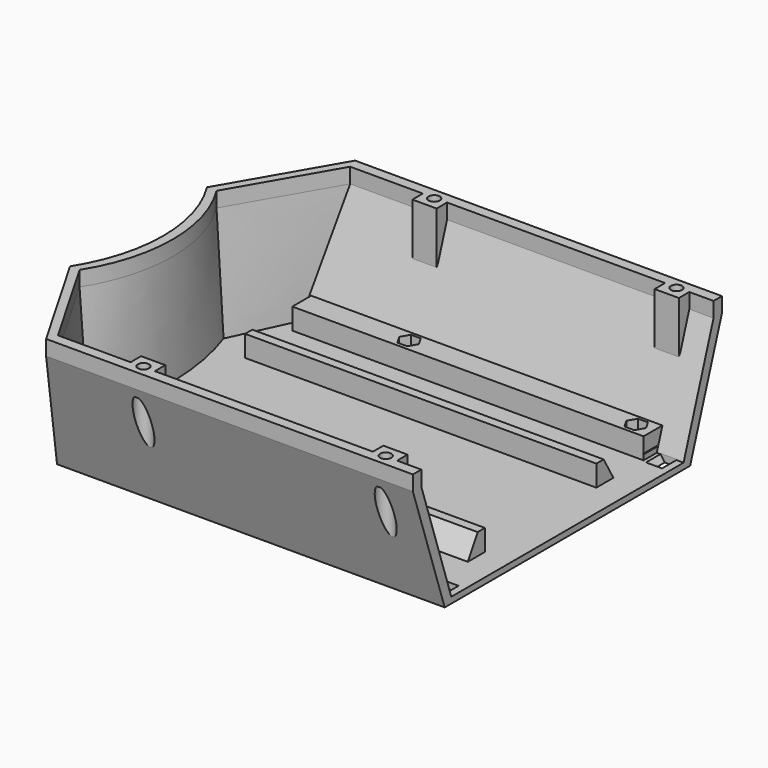
from build123d import *

# Parameters (mm, degrees)
BOX017_W            = 41
BOX017_H            = 140
BOX017_DEPTH        = 60
SKETCH348_R         = 1.85
EXTRUDE136129_DEPTH = 25
EXTRUDE136133_DEPTH = 6
EXTRUDE136132_DEPTH = 6
SKETCH339_R         = 1.75
EXTRUDE136134_DEPTH = 14
EXTRUDE136135_DEPTH = 5
SKETCH349_R         = 2.85
EXTRUDE136130_DEPTH = 25
SKETCH353_R         = 2.75
EXTRUDE136137_DEPTH = 4
EXTRUDE136131_DEPTH = 116
EXTRUDE136138_DEPTH = 20.5
EXTRUDE136128_DEPTH = 8
EXTRUDE136127_DEPTH = 8
ARRAY032_COUNT      = 2


with BuildPart() as cube013:
    # Box017 → Box017 (new body)
    with BuildSketch(Plane(origin=(52, -70, -46), x_dir=(1, 0, 0), z_dir=(0, 0, 1))):
        with Locations((20.5, 70)):
            Rectangle(BOX017_W, BOX017_H)
    extrude(amount=BOX017_DEPTH)


with BuildPart() as extrude136129:
    # Sketch348 → Extrude136129 (new body)
    with BuildSketch(Plane.XY):
        with Locations((-40, 60)):
            Circle(SKETCH348_R)
        with Locations((40, 60)):
            Circle(SKETCH348_R)
        with Locations((40, -60)):
            Circle(SKETCH348_R)
        with Locations((-40, -60)):
            Circle(SKETCH348_R)
    extrude(amount=-EXTRUDE136129_DEPTH)


with BuildPart() as extrude136133:
    # Sketch351 → Extrude136133 (new body)
    with BuildSketch(Plane.XZ):
        Polygon((-4.05083, 4), (-1.25, 0), (1.25, 0), (4.05083, 4), align=None)
    extrude(amount=-EXTRUDE136133_DEPTH)


with BuildPart() as extrude136133_1:
    # Extrude136133 placement: moved
    add(extrude136133.part.moved(Location((0, 42, 0))))


with BuildPart() as fusion034004041077001011012:
    # Sketch351 → Extrude136132 (new body)
    with BuildSketch(Plane.XZ):
        Polygon((-4.05083, 4), (-1.25, 0), (1.25, 0), (4.05083, 4), align=None)
    extrude(amount=-EXTRUDE136132_DEPTH)


with BuildPart() as fusion034004041077001011012_1:
    # Extrude136132 placement: moved
    add(fusion034004041077001011012.part.moved(Location((0, -48, 0))))

    # Fusion034004041077001011012: union Extrude136133
    add(extrude136133_1.part)


with BuildPart() as fusion034004041077001011012_2:
    # Fusion034004041077001011012 placement: moved
    add(fusion034004041077001011012_1.part.moved(Location((47, 0, -44))))


with BuildPart() as extrude136134:
    # Sketch339 → Extrude136134 (new body)
    with BuildSketch(Plane.XY.offset(-32)):
        with Locations((-37.5, 46.5)):
            Circle(SKETCH339_R)
        with Locations((37.5, 46.5)):
            Circle(SKETCH339_R)
        with Locations((37.5, -46.5)):
            Circle(SKETCH339_R)
        with Locations((-37.5, -46.5)):
            Circle(SKETCH339_R)
    extrude(amount=-EXTRUDE136134_DEPTH)


with BuildPart() as extrude136135:
    # Sketch340 → Extrude136135 (new body)
    with BuildSketch(Plane.XY.offset(-39)):
        Polygon((39.125, -49.314583), (40.75, -46.5), (39.125, -43.685417), (35.875, -43.685417), (34.25, -46.5), (35.875, -49.314583), align=None)
        Polygon((39.125, 43.685417), (40.75, 46.5), (39.125, 49.314583), (35.875, 49.314583), (34.25, 46.5), (35.875, 43.685417), align=None)
        Polygon((-34.25, 46.5), (-35.875, 49.314583), (-39.125, 49.314583), (-40.75, 46.5), (-39.125, 43.685417), (-35.875, 43.685417), align=None)
        Polygon((-40.75, -46.5), (-39.125, -49.314583), (-35.875, -49.314583), (-34.25, -46.5), (-35.875, -43.685417), (-39.125, -43.685417), align=None)
    extrude(amount=EXTRUDE136135_DEPTH)


with BuildPart() as fusion034004041077001011011:
    # Sketch349 → Extrude136130 (new body)
    with BuildSketch(Plane.XY.offset(-8)):
        with Locations((-40, -60)):
            Circle(SKETCH349_R)
        with Locations((40, -60)):
            Circle(SKETCH349_R)
        with Locations((40, 60)):
            Circle(SKETCH349_R)
        with Locations((-40, 60)):
            Circle(SKETCH349_R)
    extrude(amount=-EXTRUDE136130_DEPTH)

    # Fusion034004041077001011011: union Extrude136129, Fusion034004041077001011012, Extrude136134, Extrude136135
    add(extrude136129.part)
    add(fusion034004041077001011012_2.part)
    add(extrude136134.part)
    add(extrude136135.part)


with BuildPart() as loft005:
    # Sketch344 → Loft005 section 0
    with BuildSketch(Plane.XY.offset(-42)):
        with BuildLine():
            Line((83.953856, 28), (74.656255, 47.938771))
            Line((-74.656255, 47.938771), (74.656255, 47.938771))
            Line((-74.656255, 47.938771), (-83.953856, 28))
            ThreePointArc((-83.953856, -28), (-79.195376, 0), (-83.953856, 28))
            Line((-83.953856, -28), (-74.656255, -47.938771))
            Line((-74.656255, -47.938771), (74.656255, -47.938771))
            Line((74.656255, -47.938771), (83.953856, -28))
            ThreePointArc((83.953856, 28), (79.195376, 0), (83.953856, -28))
        make_face()
    # Sketch345 → Loft005 section 1
    with BuildSketch(Plane.XY.offset(-5)):
        with BuildLine():
            Line((86.49793, 28.2685), (67.99793, 60.31144))
            Line((-67.99793, 60.31144), (67.99793, 60.31144))
            Line((-67.99793, 60.31144), (-86.49793, 28.2685))
            ThreePointArc((-86.49793, -28.2685), (-78.355592, 0), (-86.49793, 28.2685))
            Line((-86.49793, -28.2685), (-67.99793, -60.31144))
            Line((-67.99793, -60.31144), (67.99793, -60.31144))
            Line((67.99793, -60.31144), (86.49793, -28.2685))
            ThreePointArc((86.49793, 28.2685), (78.355592, 0), (86.49793, -28.2685))
        make_face()
    # Sketch343 → Loft005 section 2
    with BuildSketch(Plane.XY.offset(12)):
        with BuildLine():
            Line((86.49793, 28.2685), (67.99793, 60.31144))
            Line((-67.99793, 60.31144), (67.99793, 60.31144))
            Line((-67.99793, 60.31144), (-86.49793, 28.2685))
            ThreePointArc((-86.49793, -28.2685), (-78.355592, 0), (-86.49793, 28.2685))
            Line((-86.49793, -28.2685), (-67.99793, -60.31144))
            Line((-67.99793, -60.31144), (67.99793, -60.31144))
            Line((67.99793, -60.31144), (86.49793, -28.2685))
            ThreePointArc((86.49793, 28.2685), (78.355592, 0), (86.49793, -28.2685))
        make_face()
    loft(ruled=True)


with BuildPart() as extrude136137:
    # Sketch353 → Extrude136137 (new body)
    with BuildSketch(Plane.YZ):
        Polygon((-6.25, 0), (-6.25, 7.75), (-2.5, 11.5), (2.5, 11.5), (6.25, 7.75), (6.25, 0), align=None)
        with Locations((0, 6.5)):
            Circle(SKETCH353_R, mode=Mode.SUBTRACT)
    extrude(amount=EXTRUDE136137_DEPTH)


with BuildPart() as extrude136137_1:
    # Extrude136137 placement: moved
    add(extrude136137.part.moved(Location((78, 0, 0))))


with BuildPart() as cut009010006006006005025006:
    # Sketch342 → Loft006 section 0
    with BuildSketch(Plane.XY.offset(-44)):
        with BuildLine():
            Line((86.585218, 28), (76.019762, 50.657695))
            Line((-76.019762, 50.657695), (76.019762, 50.657695))
            Line((-76.019762, 50.657695), (-86.585218, 28))
            ThreePointArc((-86.585218, -28), (-81.826738, 0), (-86.585218, 28))
            Line((-86.585218, -28), (-76.019762, -50.657695))
            Line((-76.019762, -50.657695), (76.019762, -50.657695))
            Line((76.019762, -50.657695), (86.585218, -28))
            ThreePointArc((86.585218, 28), (81.826738, 0), (86.585218, -28))
        make_face()
    # Sketch346 → Loft006 section 1
    with BuildSketch(Plane.XY.offset(-5)):
        with BuildLine():
            Line((89.648714, 28.2685), (69.148714, 63.775542))
            Line((-69.148714, 63.775542), (69.148714, 63.775542))
            Line((-69.148714, 63.775542), (-89.648714, 28.2685))
            ThreePointArc((-89.648714, -28.2685), (-81.506376, 0), (-89.648714, 28.2685))
            Line((-89.648714, -28.2685), (-69.148714, -63.775542))
            Line((-69.148714, -63.775542), (69.148714, -63.775542))
            Line((69.148714, -63.775542), (89.648714, -28.2685))
            ThreePointArc((89.648714, 28.2685), (81.506376, 0), (89.648714, -28.2685))
        make_face()
    # Sketch341 → Loft006 section 2
    with BuildSketch(Plane.XY):
        with BuildLine():
            Line((89.648714, 28.2685), (69.148714, 63.775542))
            Line((-69.148714, 63.775542), (69.148714, 63.775542))
            Line((-69.148714, 63.775542), (-89.648714, 28.2685))
            ThreePointArc((-89.648714, -28.2685), (-81.506376, 0), (-89.648714, 28.2685))
            Line((-89.648714, -28.2685), (-69.148714, -63.775542))
            Line((-69.148714, -63.775542), (69.148714, -63.775542))
            Line((69.148714, -63.775542), (89.648714, -28.2685))
            ThreePointArc((89.648714, 28.2685), (81.506376, 0), (89.648714, -28.2685))
        make_face()
    loft(ruled=True)

    # Fusion034004041077001011013: union Extrude136137
    add(extrude136137_1.part)

    # Cut009010006006006005025006: cut Loft005
    add(loft005.part, mode=Mode.SUBTRACT)


with BuildPart() as extrude136131:
    # Sketch350 → Extrude136131 (new body)
    with BuildSketch(Plane.YZ):
        Polygon((-52.764154, 0), (-49.5, -7), (-42.5, -7), (-42.5, 0), align=None)
        Polygon((52.764154, 0), (49.5, -7), (42.5, -7), (42.5, 0), align=None)
        Polygon((-26, 0), (-23, 0), (-23, -7), (-30.041452, -7), align=None)
        Polygon((23, 0), (26, 0), (30.041452, -7), (23, -7), align=None)
    extrude(amount=EXTRUDE136131_DEPTH)


with BuildPart() as extrude136131_1:
    # Extrude136131 placement: moved
    add(extrude136131.part.moved(Location((-72.85, 0, -35))))


with BuildPart() as extrude136138:
    # Sketch354 → Extrude136138 (new body)
    with BuildSketch(Plane.YZ):
        Polygon((-52.764154, 0), (-49.5, -7), (-42.5, -7), (-42.5, 0), align=None)
        Polygon((52.764154, 0), (49.5, -7), (42.5, -7), (42.5, 0), align=None)
    extrude(amount=-EXTRUDE136138_DEPTH)


with BuildPart() as extrude136138_1:
    # Extrude136138 placement: moved
    add(extrude136138.part.moved(Location((72.75, 0, -35))))


with BuildPart() as extrude136128:
    # Sketch347 → Extrude136128 (new body)
    with BuildSketch(Plane.YZ):
        Polygon((0, 0), (0, -5), (7, -17.124356), (7, 0), align=None)
    extrude(amount=EXTRUDE136128_DEPTH)


with BuildPart() as extrude136128_1:
    # Extrude136128 placement: moved
    add(extrude136128.part.moved(Location((-44, -63, 0))))


with BuildPart() as batteryboxcut44mm:
    # Sketch347 → Extrude136127 (new body)
    with BuildSketch(Plane.YZ):
        Polygon((0, 0), (0, -5), (7, -17.124356), (7, 0), align=None)
    extrude(amount=EXTRUDE136127_DEPTH)


with BuildPart() as batteryboxcut44mm_1:
    # Extrude136127 placement: moved
    add(batteryboxcut44mm.part.moved(Location((36, -63, 0))))

    # Fusion034004041077001011010: union Extrude136128
    add(extrude136128_1.part)

    # Array032: BatteryBoxCut44mm ×2 about axis
    array032_axis = Axis((0, 0, 0), (0, 0, 1))


with BuildPart() as batteryboxcut44mm_2:
    add(batteryboxcut44mm_1.part)
    for i in range(1, ARRAY032_COUNT):
        add(batteryboxcut44mm_1.part.rotate(array032_axis, i * 360 / ARRAY032_COUNT))

    # Fusion034004041077001011014: union Cut009010006006006005025006, Extrude136131, Extrude136138
    add(cut009010006006006005025006.part)
    add(extrude136131_1.part)
    add(extrude136138_1.part)

    # Cut009010006006006005025007: cut Fusion034004041077001011011
    add(fusion034004041077001011011.part, mode=Mode.SUBTRACT)

    # Cut009010006006006005025008: cut Cube013
    add(cube013.part, mode=Mode.SUBTRACT)


with BuildPart() as batteryboxcut44mm_3:
    # Cut009010006006006005025008 placement: moved
    add(batteryboxcut44mm_2.part.moved(Location((0, 0, -25.5))))


solid = batteryboxcut44mm_3.part
